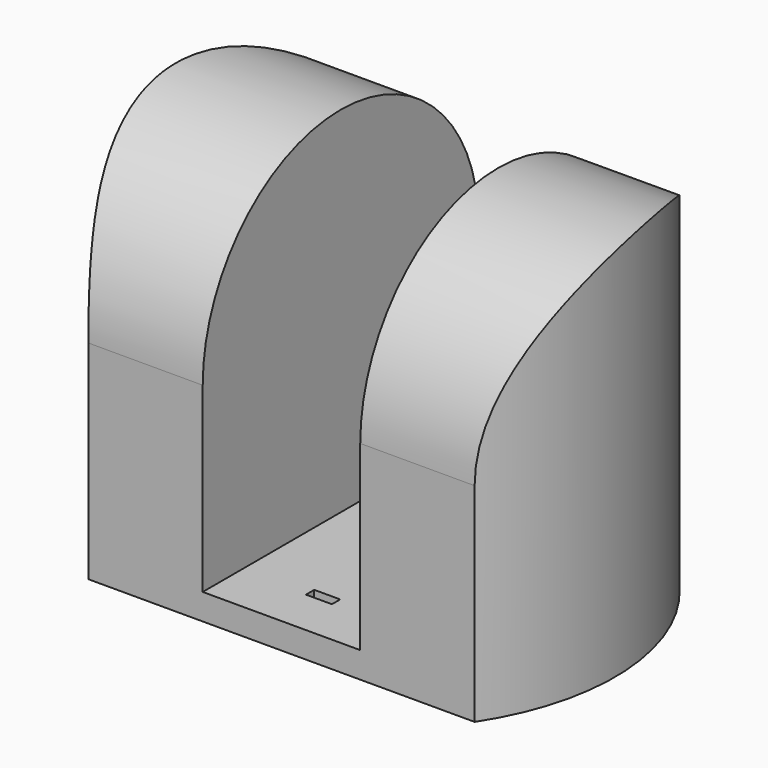
from build123d import *

# Parameters (mm, degrees)
F1_DEPTH  = 5
F3_DEPTH  = 70
F5_DEPTH  = 29.352648758
F6_DEPTH  = 59.649351342
F7_W      = 5
F7_H      = 2
F8_DEPTH  = 5.0010001
F9_R      = 1
F10_DEPTH = 5.0010001


with BuildPart() as f1:
    # F0 (on Top) → F1 (new body)
    with BuildSketch(Plane.XY):
        with BuildLine():
            ThreePointArc((37.148351242, -24.5), (0, 44.5), (-37.148351242, -24.5))
            Line((-37.148351242, -24.5), (37.148351242, -24.5))
        make_face()
    extrude(amount=F1_DEPTH)

    # F2 (on face) → F3 (join)
    with BuildSketch(Plane.XY.offset(5)):
        with BuildLine():
            ThreePointArc((-15.148351242, 41.8422926553), (-42.2381488866, 14.0067404715), (-37.148351242, -24.5))
            Line((-37.148351242, -24.5), (-15.148351242, -24.5))
            Line((-15.148351242, -24.5), (-15.148351242, 41.8422926553))
        make_face()
        with BuildLine():
            Line((15.148351242, 41.8422926553), (15.148351242, -24.5))
            Line((15.148351242, -24.5), (37.148351242, -24.5))
            ThreePointArc((37.148351242, -24.5), (42.2381488866, 14.0067404715), (15.148351242, 41.8422926553))
        make_face()
    extrude(amount=F3_DEPTH)

    # F4 (on face) → F5 (cut, through all)
    with BuildSketch(Plane.YZ.offset(-15.148351242)):
        with BuildLine():
            ThreePointArc((-24.5, 40), (8.6711463276, 73.1711463276), (41.8422926553, 40))
            Line((41.8422926553, 40), (58.5, 40))
            Line((58.5, 40), (58.5, 90))
            Line((58.5, 90), (-45.5, 90))
            Line((-45.5, 90), (-45.5, 40))
            Line((-45.5, 40), (-24.5, 40))
        make_face()
    extrude(amount=-F5_DEPTH, mode=Mode.SUBTRACT)

    # F4 (on face) → F6 (cut, through all)
    with BuildSketch(Plane.YZ.offset(-15.148351242)):
        with BuildLine():
            ThreePointArc((-24.5, 40), (8.6711463276, 73.1711463276), (41.8422926553, 40))
            Line((41.8422926553, 40), (58.5, 40))
            Line((58.5, 40), (58.5, 90))
            Line((58.5, 90), (-45.5, 90))
            Line((-45.5, 90), (-45.5, 40))
            Line((-45.5, 40), (-24.5, 40))
        make_face()
    extrude(amount=F6_DEPTH, mode=Mode.SUBTRACT)

    # F7 (on face) → F8 (cut, through all)
    with BuildSketch(Plane.XY.offset(5)):
        Polygon((-2.5, 33.5), (0, 33.5), (2.5, 33.5), (2.5, 35.5), (-2.5, 35.5), align=None)
        with Locations((0, -14.5)):
            Rectangle(F7_W, F7_H)
    extrude(amount=-F8_DEPTH, mode=Mode.SUBTRACT)

    # F9 (on face) → F10 (cut, through all)
    with BuildSketch(Plane.XY.offset(5)):
        Circle(F9_R)
        with Locations((0, -4)):
            Circle(F9_R)
    extrude(amount=-F10_DEPTH, mode=Mode.SUBTRACT)


solid = f1.part
